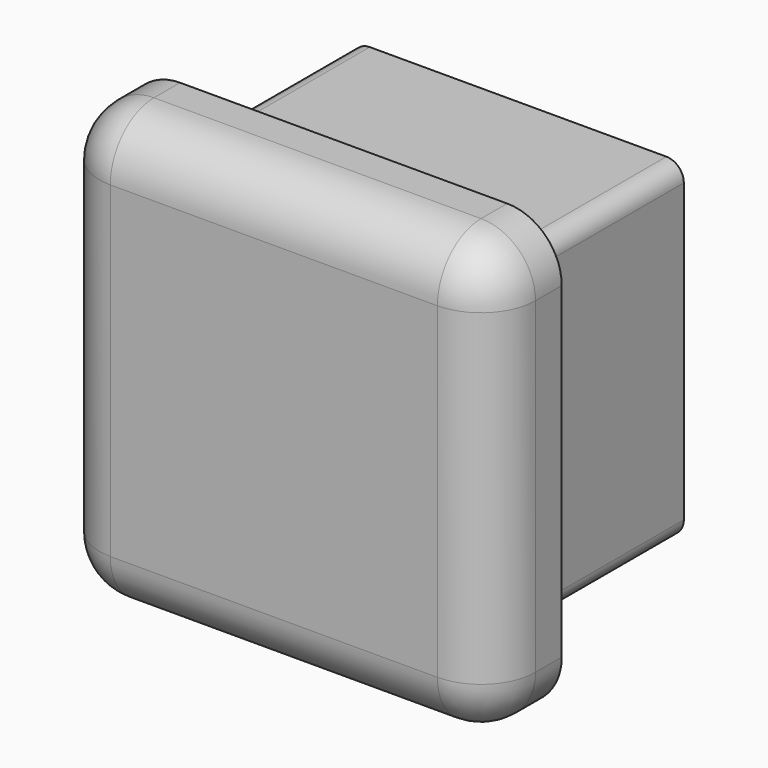
from build123d import *

# Parameters (mm, degrees)
F1_DEPTH = 5.08
F2_R     = 3.175
F4_DEPTH = 12.7
F5_W     = 14.224
F5_H     = 14.224
F6_DEPTH = 43.7134


with BuildPart() as f1:
    # F0 (on Front) → F1 (new body)
    with BuildSketch(Plane.XZ):
        with BuildLine():
            Line((9.525, 12.7), (-9.525, 12.7))
            ThreePointArc((-9.525, 12.7), (-11.770064, 11.770064), (-12.7, 9.525))
            Line((-12.7, 9.525), (-12.7, -9.525))
            ThreePointArc((-12.7, -9.525), (-11.770064, -11.770064), (-9.525, -12.7))
            Line((-9.525, -12.7), (9.525, -12.7))
            ThreePointArc((9.525, -12.7), (11.770064, -11.770064), (12.7, -9.525))
            Line((12.7, -9.525), (12.7, 9.525))
            ThreePointArc((12.7, 9.525), (11.770064, 11.770064), (9.525, 12.7))
        make_face()
    extrude(amount=F1_DEPTH)

    # F2
    f2_edges = [f1.edges().sort_by_distance(p)[0] for p in [
        (12.7, -5.08, 0),
    ]]
    fillet(f2_edges, radius=F2_R)

    # F3 (on face) → F4 (join)
    with BuildSketch(Plane(origin=(0, 0, 0), x_dir=(-1, 0, 0), z_dir=(0, 1, 0))):
        with BuildLine():
            ThreePointArc((9.652, 8.636), (9.35442, 9.35442), (8.636, 9.652))
            Line((8.636, 9.652), (-8.636, 9.652))
            ThreePointArc((-8.636, 9.652), (-9.35442, 9.35442), (-9.652, 8.636))
            Line((-9.652, 8.636), (-9.652, -8.636))
            ThreePointArc((-9.652, -8.636), (-9.35442, -9.35442), (-8.636, -9.652))
            Line((-8.636, -9.652), (8.636, -9.652))
            ThreePointArc((8.636, -9.652), (9.35442, -9.35442), (9.652, -8.636))
            Line((9.652, -8.636), (9.652, 8.636))
        make_face()
    extrude(amount=F4_DEPTH)

    # F5 (on face) → F6 (cut)
    with BuildSketch(Plane(origin=(0, 0, 0), x_dir=(-1, 0, 0), z_dir=(0, 1, 0))):
        Rectangle(F5_W, F5_H)
    extrude(amount=F6_DEPTH, mode=Mode.SUBTRACT)


solid = f1.part
